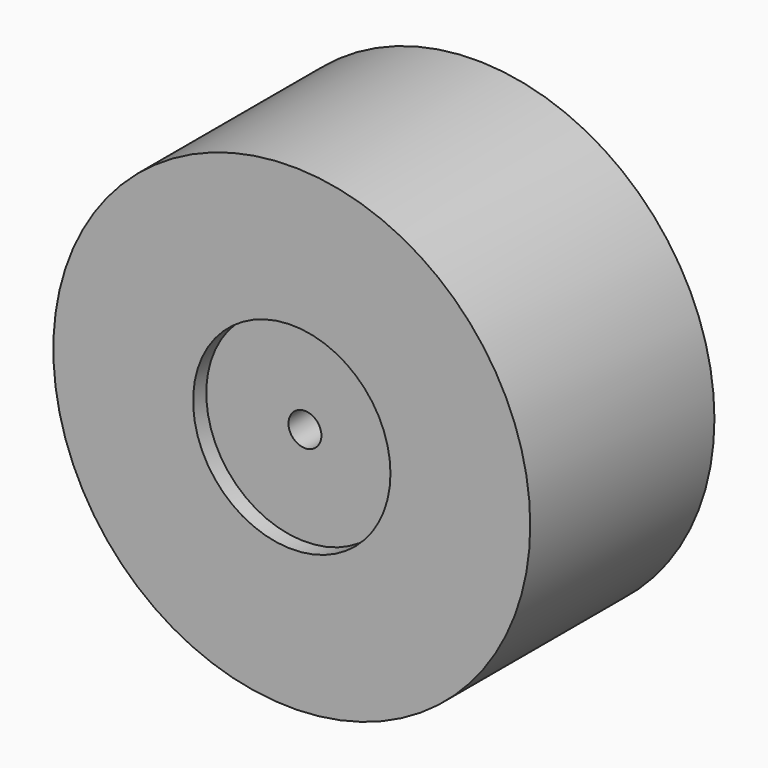
from build123d import *

# Parameters (mm, degrees)
F0_R     = 184.15
F0_R_2   = 76.2
F1_DEPTH = 88.9
F2_R     = 76.2
F3_DEPTH = 76.2
F4_R     = 12.7
F5_DEPTH = 76.2
F6_R     = 12.7
F7_DEPTH = 76.2


with BuildPart() as f1:
    # F0 (on Front) → F1 (new body, symmetric)
    with BuildSketch(Plane.XZ):
        Circle(F0_R)
        Circle(F0_R_2, mode=Mode.SUBTRACT)
    extrude(amount=F1_DEPTH, both=True)

    # F2 (on Front) → F3 (join, symmetric)
    with BuildSketch(Plane.XZ):
        Circle(F2_R)
    extrude(amount=F3_DEPTH, both=True)

    # F4 (on face) → F5 (cut, symmetric)
    with BuildSketch(Plane.XZ.offset(76.2)):
        Circle(F4_R)
    extrude(amount=F5_DEPTH, both=True, mode=Mode.SUBTRACT)

    # F6 (on face) → F7 (cut, symmetric)
    with BuildSketch(Plane.XZ):
        Circle(F6_R)
    extrude(amount=F7_DEPTH, both=True, mode=Mode.SUBTRACT)


solid = f1.part
